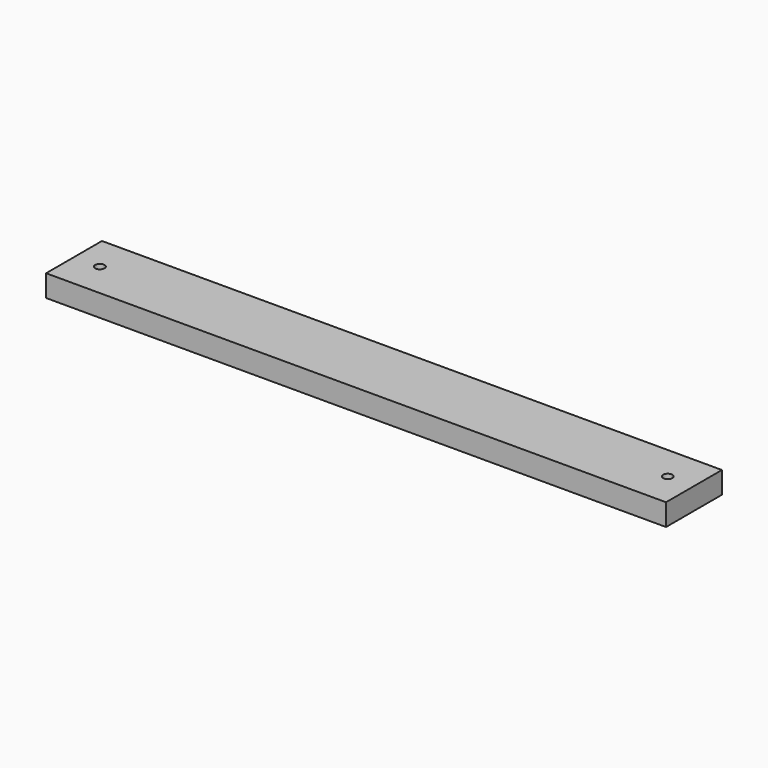
from build123d import *

# Parameters (mm, degrees)
F0_W     = 50.8
F0_H     = 15.875
F1_DEPTH = 225.425
F3_D     = 6.7564
F3_DEPTH = 9.525
F3_TIP   = 2.0298273432


with BuildPart() as f1:
    # F0 (on Right) → F1 (new body, symmetric)
    with BuildSketch(Plane.YZ):
        Rectangle(F0_W, F0_H)
    extrude(amount=F1_DEPTH, both=True)

    # F3
    with Locations(Plane.XY.offset(7.9375)):
        with Locations((206.375, 0), (-206.629, 0)):
            Hole(F3_D / 2, depth=F3_DEPTH)
            with Locations((0, 0, -(F3_DEPTH + F3_TIP / 2))):  # 118° drill point
                Cone(0, F3_D / 2, F3_TIP, mode=Mode.SUBTRACT)


solid = f1.part
